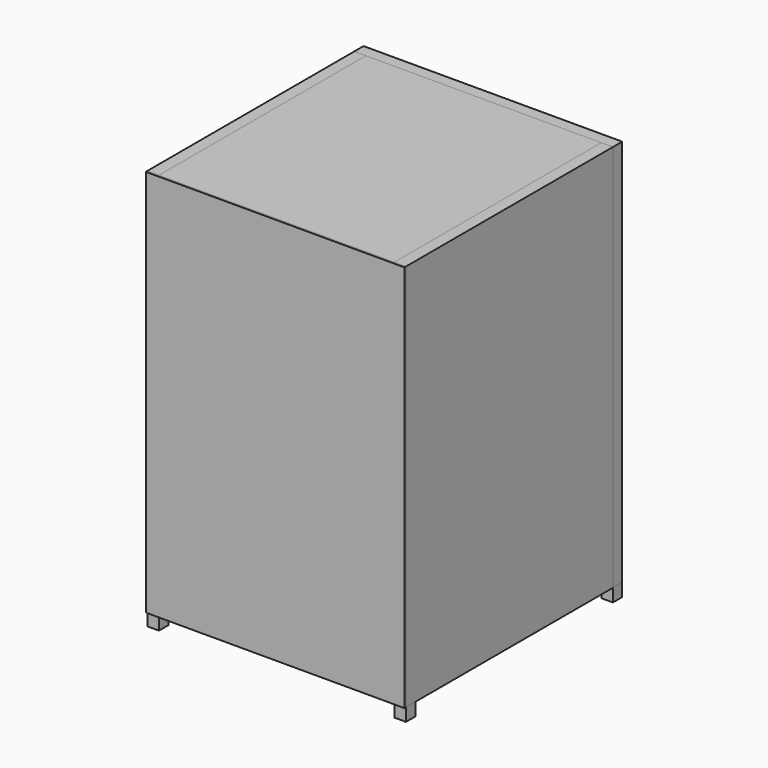
from build123d import *

# Parameters (mm, degrees)
F0_W      = 200
F0_H      = 300
F1_DEPTH  = 1.5
F2_W      = 9
F2_H      = 300
F3_DEPTH  = 200
F5_DEPTH  = 12
F7_DEPTH  = 182
F8_W      = 21.2037339807
F8_H      = 13.2238465644
F9_DEPTH  = 5
F11_DEPTH = 12
F12_W     = 200
F12_H     = 9
F13_DEPTH = 182
F14_W     = 200
F14_H     = 9
F15_DEPTH = 182
F16_W     = 200
F16_H     = 300
F17_DEPTH = 9
F18_W     = 200
F18_H     = 300
F19_DEPTH = 9
F20_W     = 156.8991802633
F20_H     = 40.0696396828
F21_DEPTH = 9
F22_W     = 9
F22_H     = 9
F23_DEPTH = 10


with BuildPart() as f1:
    # F0 (on Front) → F1 (new body)
    with BuildSketch(Plane.XZ):
        with Locations((100, 150)):
            Rectangle(F0_W, F0_H)
    extrude(amount=F1_DEPTH)


with BuildPart() as f3:
    # F2 (on face) → F3 (new body)
    with BuildSketch(Plane(origin=(0, 0, 0), x_dir=(-1, 0, 0), z_dir=(0, 1, 0))):
        with Locations((-4.5, 150)):
            Rectangle(F2_W, F2_H)
    extrude(amount=F3_DEPTH)


with BuildPart() as f5:
    # F4 (on face) → F5 (new body)
    with BuildSketch(Plane.YZ.offset(9)):
        Polygon((0, 127.7815699577), (0, 96.3572561741), (27.6775900275, 112.250007689), align=None)
    extrude(amount=F5_DEPTH)


with BuildPart() as f7:
    # F6 (on face) → F7 (new body)
    with BuildSketch(Plane.YZ.offset(9)):
        Polygon((0, 127.7815699577), (27.6775900275, 112.250007689), (33.3645287901, 119.3200424314), (5.6869387627, 134.8516047001), align=None)
    extrude(amount=F7_DEPTH)


with BuildPart() as f9:
    # F8 (on face) → F9 (new body)
    with BuildSketch(Plane(origin=(0, 58.9125639544, 104.9835016197), x_dir=(1, 0, 0), z_dir=(0, 0.489373421, 0.8720743402))):
        with Locations((108.366433531, -35.9076312136)):
            Rectangle(F8_W, F8_H)
    extrude(amount=F9_DEPTH)


with BuildPart() as f11:
    # F10 (on face) → F11 (new body)
    with BuildSketch(Plane.YZ.offset(191)):
        Polygon((0, 127.7815699577), (0, 96.3572561741), (27.6775900275, 112.250007689), align=None)
    extrude(amount=-F11_DEPTH)


with BuildPart() as f13:
    # F12 (on face) → F13 (new body)
    with BuildSketch(Plane.YZ.offset(9)):
        with Locations((100, 295.5)):
            Rectangle(F12_W, F12_H)
    extrude(amount=F13_DEPTH)


with BuildPart() as f15:
    # F14 (on face) → F15 (new body)
    with BuildSketch(Plane.YZ.offset(9)):
        with Locations((100, 4.5)):
            Rectangle(F14_W, F14_H)
    extrude(amount=F15_DEPTH)


with BuildPart() as f17:
    # F16 (on face) → F17 (new body)
    with BuildSketch(Plane.YZ.offset(191)):
        with Locations((100, 150)):
            Rectangle(F16_W, F16_H)
    extrude(amount=F17_DEPTH)


with BuildPart() as f19:
    # F18 (on face) → F19 (new body)
    with BuildSketch(Plane(origin=(0, 200, 0), x_dir=(-1, 0, 0), z_dir=(0, 1, 0))):
        with Locations((-100, 150)):
            Rectangle(F18_W, F18_H)
    extrude(amount=F19_DEPTH)

    # F20 (on face) → F21 (cut)
    with BuildSketch(Plane(origin=(0, 209, 0), x_dir=(-1, 0, 0), z_dir=(0, 1, 0))):
        with Locations((-99.422307685, 50.3766164184)):
            Rectangle(F20_W, F20_H)
    extrude(amount=-F21_DEPTH, mode=Mode.SUBTRACT)


with BuildPart() as f23:
    # F22 (on face) → F23 (new body)
    with BuildSketch(Plane(origin=(0, 0, 0), x_dir=(1, 0, 0), z_dir=(0, 0, -1))):
        with Locations((195.5, -4.5)):
            Rectangle(F22_W, F22_H)
    extrude(amount=F23_DEPTH)


with BuildPart() as f23b:
    # F22 (on face) → F23, piece 2 (new body)
    with BuildSketch(Plane(origin=(0, 0, 0), x_dir=(1, 0, 0), z_dir=(0, 0, -1))):
        with Locations((195.5, -204.5)):
            Rectangle(F22_W, F22_H)
    extrude(amount=F23_DEPTH)


with BuildPart() as f23c:
    # F22 (on face) → F23, piece 3 (new body)
    with BuildSketch(Plane(origin=(0, 0, 0), x_dir=(1, 0, 0), z_dir=(0, 0, -1))):
        with Locations((4.5, -204.5)):
            Rectangle(F22_W, F22_H)
    extrude(amount=F23_DEPTH)


with BuildPart() as f23d:
    # F22 (on face) → F23, piece 4 (new body)
    with BuildSketch(Plane(origin=(0, 0, 0), x_dir=(1, 0, 0), z_dir=(0, 0, -1))):
        with Locations((4.5, -4.5)):
            Rectangle(F22_W, F22_H)
    extrude(amount=F23_DEPTH)


solid = Compound([f1.part, f3.part, f5.part, f7.part, f9.part, f11.part, f13.part, f15.part, f17.part, f19.part, f23.part, f23b.part, f23c.part, f23d.part])
